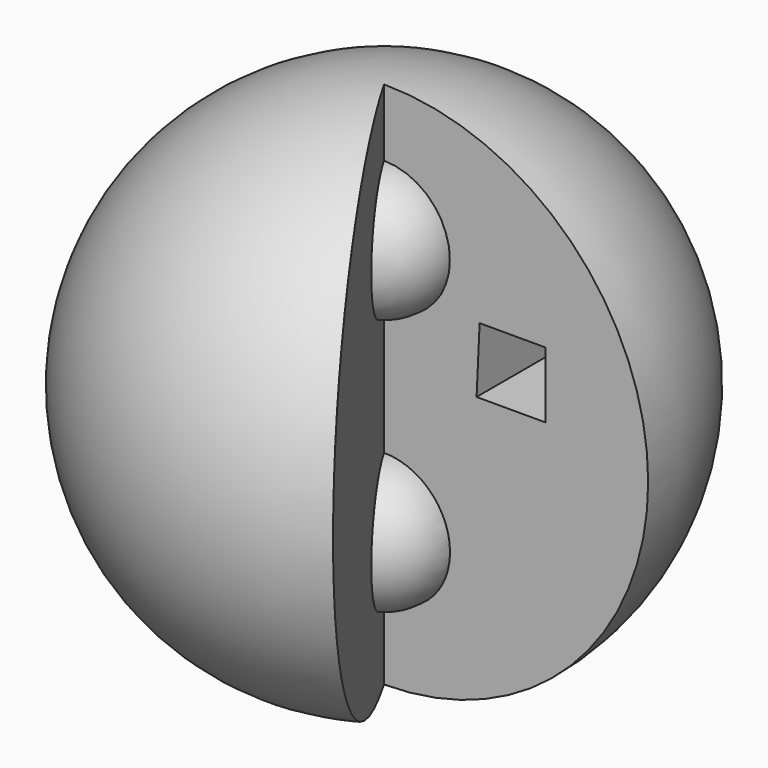
from build123d import *

# Parameters (mm, degrees)
F1_ANGLE = 300
F3_DEPTH = 10


with BuildPart() as f1:
    # F0 (on Front) → F1 (revolve)
    with BuildSketch(Plane.XZ):
        with BuildLine():
            Line((0, 40), (0, 0))
            ThreePointArc((0, 0), (20, 20), (0, 40))
        make_face()
    revolve(axis=Axis((0, 0, 20), (0, 0, 1)), revolution_arc=F1_ANGLE)

    # F2 (on face) → F3 (cut)
    with BuildSketch(Plane.XZ):
        Polygon((12.241537, 26.438929), (7.241537, 26.438929), (7.009915, 21.444297), (12.241537, 21.444297), align=None)
    extrude(amount=-F3_DEPTH, mode=Mode.SUBTRACT)


with BuildPart() as f5:
    # F4 (on face) → F5 (revolve)
    with BuildSketch(Plane.XZ):
        with BuildLine():
            ThreePointArc((0, 5.445642), (5, 10.445642), (0, 15.445642))
            Line((0, 15.445642), (0, 5.445642))
        make_face()
    revolve(axis=Axis((0, 0, 20), (0, 0, 1)))


with BuildPart() as f7:
    # F6 (on face) → F7 (revolve)
    with BuildSketch(Plane(origin=(0, 0, 0), x_dir=(-0.5, 0.866025, 0), z_dir=(0.866025, 0.5, 0))):
        with BuildLine():
            Line((0, 24.913479), (0, 34.913479))
            ThreePointArc((0, 34.913479), (-5, 29.913479), (0, 24.913479))
        make_face()
    revolve(axis=Axis((0, 0, 20), (0, 0, 1)))


solid = Compound([f1.part, f5.part, f7.part])
